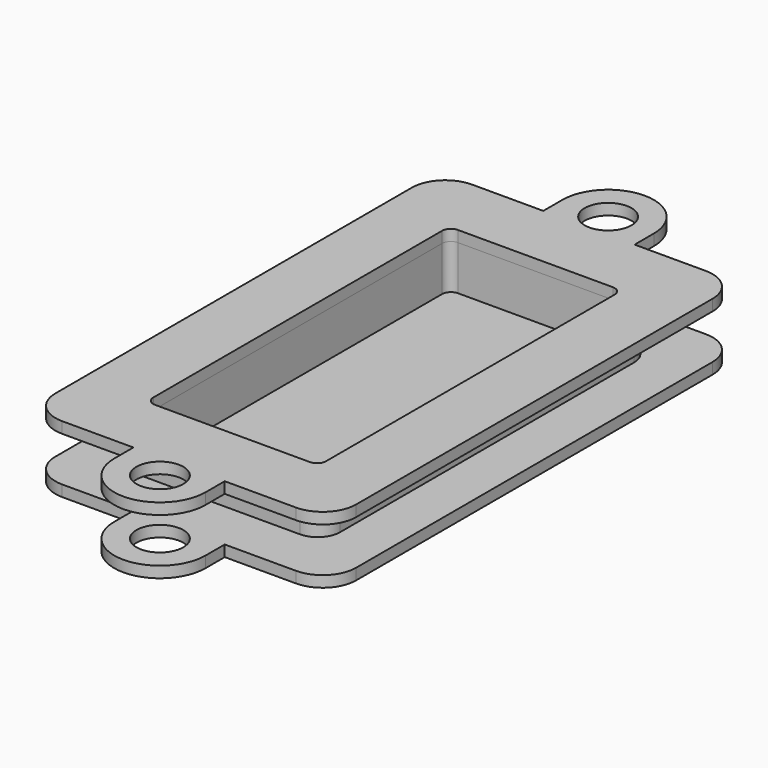
from build123d import *

# Parameters (mm, degrees)
F0_R     = 2.1
F1_DEPTH = 1
F3_DEPTH = 4
F4_R     = 2.1
F5_DEPTH = 1
F6_W     = 0.7
F6_H     = 1.5
F7_DEPTH = 0.4


with BuildPart() as f1:
    # F0 (on Top) → F1 (new body)
    with BuildSketch(Plane.XY):
        with BuildLine():
            ThreePointArc((13.5, 20), (12.62132, 22.12132), (10.5, 23))
            Line((10.5, 23), (4.1, 23))
            Line((4.1, 23), (4.1, 25.15))
            ThreePointArc((4.1, 25.15), (0, 29.25), (-4.1, 25.15))
            Line((-4.1, 25.15), (-4.1, 23))
            Line((-4.1, 23), (-10.5, 23))
            ThreePointArc((-10.5, 23), (-12.62132, 22.12132), (-13.5, 20))
            Line((-13.5, 20), (-13.5, -20))
            ThreePointArc((-13.5, -20), (-12.62132, -22.12132), (-10.5, -23))
            Line((-10.5, -23), (-4.1, -23))
            Line((-4.1, -23), (-4.1, -25.15))
            ThreePointArc((-4.1, -25.15), (0, -29.25), (4.1, -25.15))
            Line((4.1, -25.15), (4.1, -23))
            Line((4.1, -23), (10.5, -23))
            ThreePointArc((10.5, -23), (12.62132, -22.12132), (13.5, -20))
            Line((13.5, -20), (13.5, 20))
        make_face()
        with Locations((0, -25.15)):
            Circle(F0_R, mode=Mode.SUBTRACT)
        with Locations((0, 25.15)):
            Circle(F0_R, mode=Mode.SUBTRACT)
    extrude(amount=F1_DEPTH)

    # F2 (on face) → F3 (join)
    with BuildSketch(Plane.XY.offset(1)):
        with BuildLine():
            ThreePointArc((-7.25, 18.5), (-8.664214, 17.914214), (-9.25, 16.5))
            Line((-9.25, 16.5), (-9.25, -16.5))
            ThreePointArc((-9.25, -16.5), (-8.664214, -17.914214), (-7.25, -18.5))
            Line((-7.25, -18.5), (7.25, -18.5))
            ThreePointArc((7.25, -18.5), (8.664214, -17.914214), (9.25, -16.5))
            Line((9.25, -16.5), (9.25, 16.5))
            ThreePointArc((9.25, 16.5), (8.664214, 17.914214), (7.25, 18.5))
            Line((7.25, 18.5), (-7.25, 18.5))
        make_face()
        with BuildLine():
            Line((-6.95, 17), (6.95, 17))
            ThreePointArc((6.95, 17), (7.515685, 16.765685), (7.75, 16.2))
            Line((7.75, 16.2), (7.75, -16.2))
            ThreePointArc((7.75, -16.2), (7.515685, -16.765685), (6.95, -17))
            Line((6.95, -17), (-6.95, -17))
            ThreePointArc((-6.95, -17), (-7.515685, -16.765685), (-7.75, -16.2))
            Line((-7.75, -16.2), (-7.75, 16.2))
            ThreePointArc((-7.75, 16.2), (-7.515685, 16.765685), (-6.95, 17))
        make_face(mode=Mode.SUBTRACT)
    extrude(amount=F3_DEPTH)

    # F6 (on face) → F7 (cut)
    with BuildSketch(Plane.XY.offset(5)):
        with Locations((-5.1, -17.75)):
            Rectangle(F6_W, F6_H)
        with Locations((-2.4, -17.75)):
            Rectangle(F6_W, F6_H)
    extrude(amount=-F7_DEPTH, mode=Mode.SUBTRACT)


with BuildPart() as f5:
    # F4 (on face) → F5 (new body)
    with BuildSketch(Plane.XY.offset(5)):
        with BuildLine():
            ThreePointArc((-10.5, 23), (-12.62132, 22.12132), (-13.5, 20))
            Line((-13.5, 20), (-13.5, -20))
            ThreePointArc((-13.5, -20), (-12.62132, -22.12132), (-10.5, -23))
            Line((-10.5, -23), (-4.1, -23))
            Line((-4.1, -23), (-4.1, -25.15))
            ThreePointArc((-4.1, -25.15), (0, -29.25), (4.1, -25.15))
            Line((4.1, -25.15), (4.1, -23))
            Line((4.1, -23), (10.5, -23))
            ThreePointArc((10.5, -23), (12.62132, -22.12132), (13.5, -20))
            Line((13.5, -20), (13.5, 20))
            ThreePointArc((13.5, 20), (12.62132, 22.12132), (10.5, 23))
            Line((10.5, 23), (4.1, 23))
            Line((4.1, 23), (4.1, 25.15))
            ThreePointArc((4.1, 25.15), (0, 29.25), (-4.1, 25.15))
            Line((-4.1, 25.15), (-4.1, 23))
            Line((-4.1, 23), (-10.5, 23))
        make_face()
        with Locations((0, -25.15)):
            Circle(F4_R, mode=Mode.SUBTRACT)
        with BuildLine():
            Line((-6.95, 17), (6.95, 17))
            ThreePointArc((6.95, 17), (7.515685, 16.765685), (7.75, 16.2))
            Line((7.75, 16.2), (7.75, -16.2))
            ThreePointArc((7.75, -16.2), (7.515685, -16.765685), (6.95, -17))
            Line((6.95, -17), (-6.95, -17))
            ThreePointArc((-6.95, -17), (-7.515685, -16.765685), (-7.75, -16.2))
            Line((-7.75, -16.2), (-7.75, 16.2))
            ThreePointArc((-7.75, 16.2), (-7.515685, 16.765685), (-6.95, 17))
        make_face(mode=Mode.SUBTRACT)
        with Locations((0, 25.15)):
            Circle(F4_R, mode=Mode.SUBTRACT)
    extrude(amount=F5_DEPTH)


solid = Compound([f1.part, f5.part])
